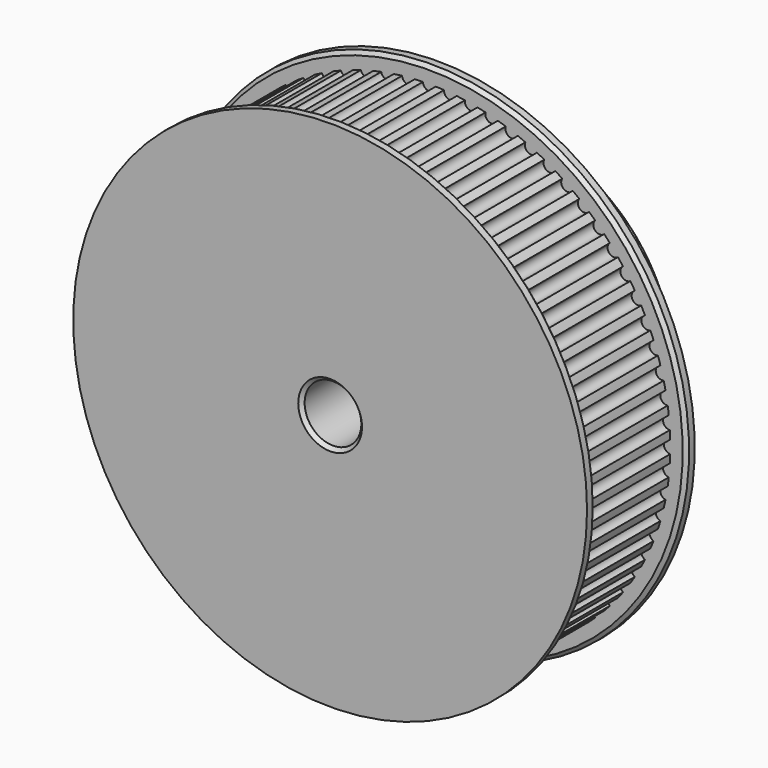
from build123d import *

# Parameters (mm, degrees)
F0_R      = 34
F1_DEPTH  = 8
F2_R      = 36.25
F3_DEPTH  = 1.5
F4_R      = 36.25
F5_DEPTH  = 1.5
F6_R      = 22.5
F7_DEPTH  = 14
F8_R      = 4
F9_DEPTH  = 33.001
F10_SIZE  = 0.5
F11_R     = 0.9
F12_DEPTH = 16


with BuildPart() as f1:
    # F0 (on Front) → F1 (new body, symmetric)
    with BuildSketch(Plane.XZ):
        Circle(F0_R)
    extrude(amount=F1_DEPTH, both=True)

    # F2 (on face) → F3 (join)
    with BuildSketch(Plane.XZ.offset(8)):
        Circle(F2_R)
    extrude(amount=F3_DEPTH)

    # F4 (on face) → F5 (join)
    with BuildSketch(Plane(origin=(0, 8, 0), x_dir=(-1, 0, 0), z_dir=(0, 1, 0))):
        Circle(F4_R)
    extrude(amount=F5_DEPTH)

    # F6 (on face) → F7 (join)
    with BuildSketch(Plane(origin=(0, 9.5, 0), x_dir=(-1, 0, 0), z_dir=(0, 1, 0))):
        Circle(F6_R)
    extrude(amount=F7_DEPTH)

    # F8 (on face) → F9 (cut, through all)
    with BuildSketch(Plane(origin=(0, 23.5, 0), x_dir=(-1, 0, 0), z_dir=(0, 1, 0))):
        Circle(F8_R)
    extrude(amount=-F9_DEPTH, mode=Mode.SUBTRACT)

    # F10
    f10_edges = [f1.edges().sort_by_distance(p)[0] for p in [
        (4, -9.5, 0),
        (4, 23.5, 0),
        (-36.25, -8, 0),
        (36.25, 8, 0),
        (22.5, 23.5, 0),
    ]]
    chamfer(f10_edges, length=F10_SIZE)

    # F11 (on face) → F12 (cut, through all)
    with BuildSketch(Plane.XZ.offset(-8)):
        with Locations((0, -34)):
            Circle(F11_R)
        with Locations((2.963295, -33.87062)):
            Circle(F11_R)
        with Locations((5.904038, -33.483464)):
            Circle(F11_R)
        with Locations((8.799848, -32.841478)):
            Circle(F11_R)
        with Locations((11.628685, -31.949549)):
            Circle(F11_R)
        with Locations((14.369021, -30.814465)):
            Circle(F11_R)
        with Locations((17, -29.444864)):
            Circle(F11_R)
        with Locations((19.501599, -27.85117)):
            Circle(F11_R)
        with Locations((21.854779, -26.045511)):
            Circle(F11_R)
        with Locations((24.041631, -24.041631)):
            Circle(F11_R)
        with Locations((26.045511, -21.854779)):
            Circle(F11_R)
        with Locations((27.85117, -19.501599)):
            Circle(F11_R)
        with Locations((29.444864, -17)):
            Circle(F11_R)
        with Locations((30.814465, -14.369021)):
            Circle(F11_R)
        with Locations((31.949549, -11.628685)):
            Circle(F11_R)
        with Locations((32.841478, -8.799848)):
            Circle(F11_R)
        with Locations((33.483464, -5.904038)):
            Circle(F11_R)
        with Locations((33.87062, -2.963295)):
            Circle(F11_R)
        with Locations((34, 0)):
            Circle(F11_R)
        with Locations((33.87062, 2.963295)):
            Circle(F11_R)
        with Locations((33.483464, 5.904038)):
            Circle(F11_R)
        with Locations((32.841478, 8.799848)):
            Circle(F11_R)
        with Locations((31.949549, 11.628685)):
            Circle(F11_R)
        with Locations((30.814465, 14.369021)):
            Circle(F11_R)
        with Locations((29.444864, 17)):
            Circle(F11_R)
        with Locations((27.85117, 19.501599)):
            Circle(F11_R)
        with Locations((26.045511, 21.854779)):
            Circle(F11_R)
        with Locations((24.041631, 24.041631)):
            Circle(F11_R)
        with Locations((21.854779, 26.045511)):
            Circle(F11_R)
        with Locations((19.501599, 27.85117)):
            Circle(F11_R)
        with Locations((17, 29.444864)):
            Circle(F11_R)
        with Locations((14.369021, 30.814465)):
            Circle(F11_R)
        with Locations((11.628685, 31.949549)):
            Circle(F11_R)
        with Locations((8.799848, 32.841478)):
            Circle(F11_R)
        with Locations((5.904038, 33.483464)):
            Circle(F11_R)
        with Locations((2.963295, 33.87062)):
            Circle(F11_R)
        with Locations((0, 34)):
            Circle(F11_R)
        with Locations((-2.963295, 33.87062)):
            Circle(F11_R)
        with Locations((-5.904038, 33.483464)):
            Circle(F11_R)
        with Locations((-8.799848, 32.841478)):
            Circle(F11_R)
        with Locations((-11.628685, 31.949549)):
            Circle(F11_R)
        with Locations((-14.369021, 30.814465)):
            Circle(F11_R)
        with Locations((-17, 29.444864)):
            Circle(F11_R)
        with Locations((-19.501599, 27.85117)):
            Circle(F11_R)
        with Locations((-21.854779, 26.045511)):
            Circle(F11_R)
        with Locations((-24.041631, 24.041631)):
            Circle(F11_R)
        with Locations((-26.045511, 21.854779)):
            Circle(F11_R)
        with Locations((-27.85117, 19.501599)):
            Circle(F11_R)
        with Locations((-29.444864, 17)):
            Circle(F11_R)
        with Locations((-30.814465, 14.369021)):
            Circle(F11_R)
        with Locations((-31.949549, 11.628685)):
            Circle(F11_R)
        with Locations((-32.841478, 8.799848)):
            Circle(F11_R)
        with Locations((-33.483464, 5.904038)):
            Circle(F11_R)
        with Locations((-33.87062, 2.963295)):
            Circle(F11_R)
        with Locations((-34, 0)):
            Circle(F11_R)
        with Locations((-33.87062, -2.963295)):
            Circle(F11_R)
        with Locations((-33.483464, -5.904038)):
            Circle(F11_R)
        with Locations((-32.841478, -8.799848)):
            Circle(F11_R)
        with Locations((-31.949549, -11.628685)):
            Circle(F11_R)
        with Locations((-30.814465, -14.369021)):
            Circle(F11_R)
        with Locations((-29.444864, -17)):
            Circle(F11_R)
        with Locations((-27.85117, -19.501599)):
            Circle(F11_R)
        with Locations((-26.045511, -21.854779)):
            Circle(F11_R)
        with Locations((-24.041631, -24.041631)):
            Circle(F11_R)
        with Locations((-21.854779, -26.045511)):
            Circle(F11_R)
        with Locations((-19.501599, -27.85117)):
            Circle(F11_R)
        with Locations((-17, -29.444864)):
            Circle(F11_R)
        with Locations((-14.369021, -30.814465)):
            Circle(F11_R)
        with Locations((-11.628685, -31.949549)):
            Circle(F11_R)
        with Locations((-8.799848, -32.841478)):
            Circle(F11_R)
        with Locations((-5.904038, -33.483464)):
            Circle(F11_R)
        with Locations((-2.963295, -33.87062)):
            Circle(F11_R)
    extrude(amount=F12_DEPTH, mode=Mode.SUBTRACT)


solid = f1.part
